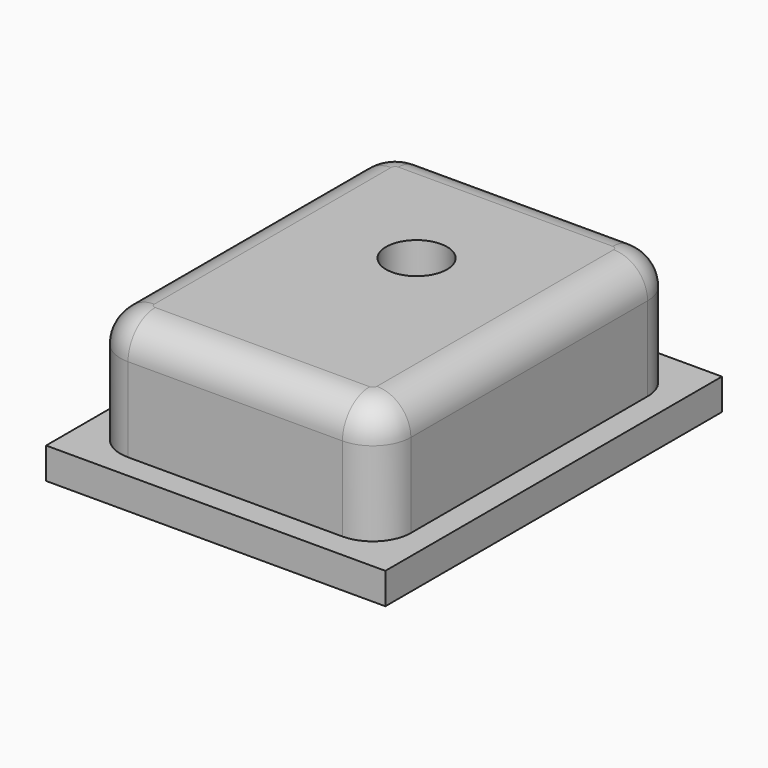
from build123d import *

# Parameters (mm, degrees)
F0_W     = 2.5
F0_H     = 3.1
F1_DEPTH = 0.23
F3_DEPTH = 0.87
F4_R     = 0.25
F5_R     = 0.225
F6_DEPTH = 0.87
F7_R     = 0.225
F8_DEPTH = 0.1


with BuildPart() as f1:
    # F0 (on Top) → F1 (new body)
    with BuildSketch(Plane.XY):
        Rectangle(F0_W, F0_H)
    extrude(amount=F1_DEPTH)


with BuildPart() as f3:
    # F2 (on face) → F3 (new body)
    with BuildSketch(Plane.XY.offset(0.23)):
        with BuildLine():
            Line((-0.79, -1.37), (0.79, -1.37))
            ThreePointArc((0.79, -1.37), (0.9879898987, -1.2879898987), (1.07, -1.09))
            Line((1.07, -1.09), (1.07, 1.09))
            ThreePointArc((1.07, 1.09), (0.9879898987, 1.2879898987), (0.79, 1.37))
            Line((0.79, 1.37), (-0.79, 1.37))
            ThreePointArc((-0.79, 1.37), (-0.9879898987, 1.2879898987), (-1.07, 1.09))
            Line((-1.07, 1.09), (-1.07, -1.09))
            ThreePointArc((-1.07, -1.09), (-0.9879898987, -1.2879898987), (-0.79, -1.37))
        make_face()
    extrude(amount=F3_DEPTH)

    # F4
    f4_edges = [f3.edges().sort_by_distance(p)[0] for p in [
        (0, -1.37, 1.1),
    ]]
    fillet(f4_edges, radius=F4_R)

    # F5 (on face) → F6 (cut, through all)
    with BuildSketch(Plane.XY.offset(1.1)):
        with Locations((0, 0.3)):
            Circle(F5_R)
    extrude(amount=-F6_DEPTH, mode=Mode.SUBTRACT)


with BuildPart() as f8:
    # F7 (on face) → F8 (new body)
    with BuildSketch(Plane.XY.offset(0.23)):
        with Locations((0, 0.3)):
            Circle(F7_R)
    extrude(amount=F8_DEPTH)


solid = Compound([f1.part, f3.part, f8.part])
